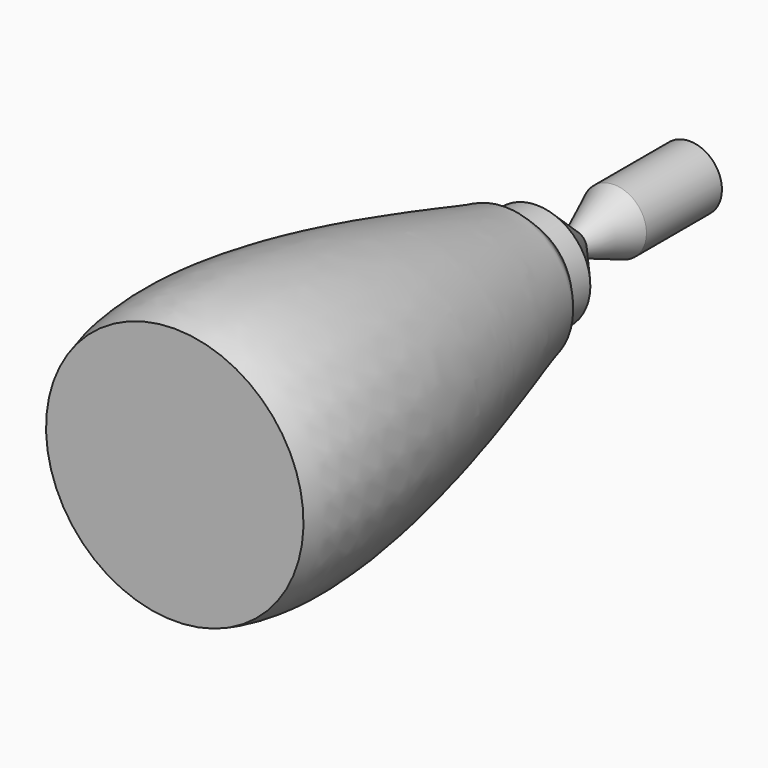
from build123d import *


with BuildPart() as f1:
    # F0 (on Right) → F1 (revolve)
    with BuildSketch(Plane.YZ):
        with BuildLine():
            Line((-4000, 0), (0, 0))
            Line((0, 0), (0, 500))
            add(Edge.make_bspline(
                [(0, 500), (-181.3373490426, 662.1718196247), (55.0691493231, 527.8189005181), (-2905.6629446896, 1542.5399462934), (-4000, 1200)],
                knots=[0, 0, 0, 0, 0.2111783438, 1, 1, 1, 1], degree=3))
            Line((-4000, 1200), (-4000, 0))
        make_face()
        Polygon((0, 500), (0, 0), (2000, 0), (2000, 300), (1120.2706098557, 300), (660.4230999947, 111.2622618675), (216.9986665249, 500), align=None)
    revolve(axis=Axis((0, -2000, 0), (0, -1, 0)))


solid = f1.part
